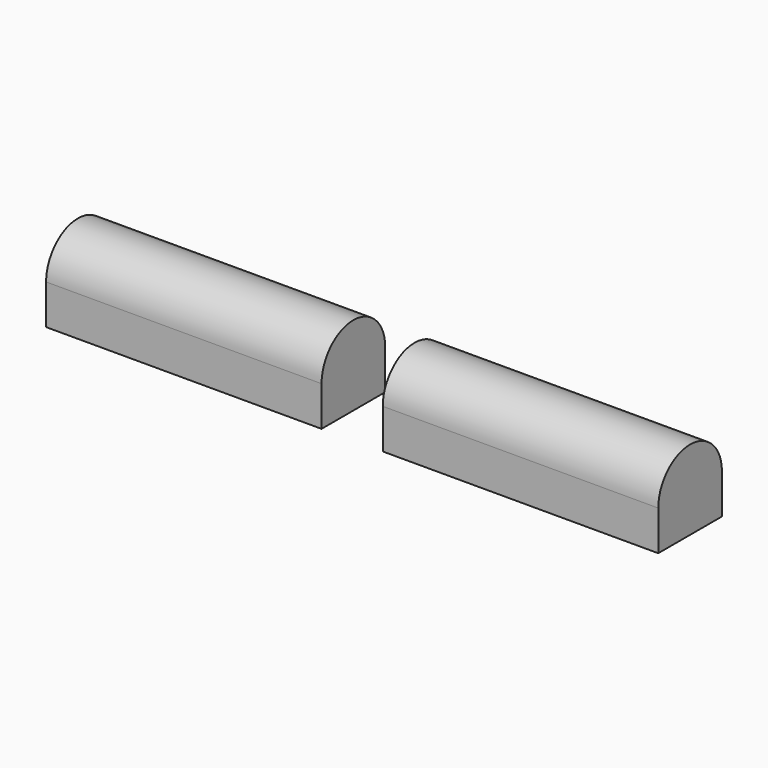
from build123d import *

# Parameters (mm, degrees)
BOX016_W          = 9
BOX016_H          = 2.6
BOX016_DEPTH      = 1.3
CYLINDER007_R     = 1.3
CYLINDER007_DEPTH = 9
BOX013_W          = 9
BOX013_H          = 2.6
BOX013_DEPTH      = 1.3
CYLINDER005_R     = 1.3
CYLINDER005_DEPTH = 9


with BuildPart() as cube016:
    # Box016 → Box016 (new body)
    with BuildSketch(Plane(origin=(-1, 20.7, 2.7), x_dir=(1, 0, 0), z_dir=(0, 0, 1))):
        with Locations((4.5, 1.3)):
            Rectangle(BOX016_W, BOX016_H)
    extrude(amount=BOX016_DEPTH)


with BuildPart() as square_topped_hole003:
    # Cylinder007 → Cylinder007 (new body)
    with BuildSketch(Plane(origin=(-1, 22, 4), x_dir=(0, 0, -1), z_dir=(1, 0, 0))):
        Circle(CYLINDER007_R)
    extrude(amount=CYLINDER007_DEPTH)

    # Fusion011: union Cube016
    add(cube016.part)


with BuildPart() as square_topped_hole003_1:
    # Fusion011 placement: moved
    add(square_topped_hole003.part.moved(Location((11, 0, 0))))


with BuildPart() as cube013:
    # Box013 → Box013 (new body)
    with BuildSketch(Plane(origin=(-1, 20.7, 2.7), x_dir=(1, 0, 0), z_dir=(0, 0, 1))):
        with Locations((4.5, 1.3)):
            Rectangle(BOX013_W, BOX013_H)
    extrude(amount=BOX013_DEPTH)


with BuildPart() as fusion012:
    # Cylinder005 → Cylinder005 (new body)
    with BuildSketch(Plane(origin=(-1, 22, 4), x_dir=(0, 0, -1), z_dir=(1, 0, 0))):
        Circle(CYLINDER005_R)
    extrude(amount=CYLINDER005_DEPTH)

    # Fusion010: union Cube013
    add(cube013.part)

    # Fusion012: union Square Topped Hole003
    add(square_topped_hole003_1.part)


solid = fusion012.part
